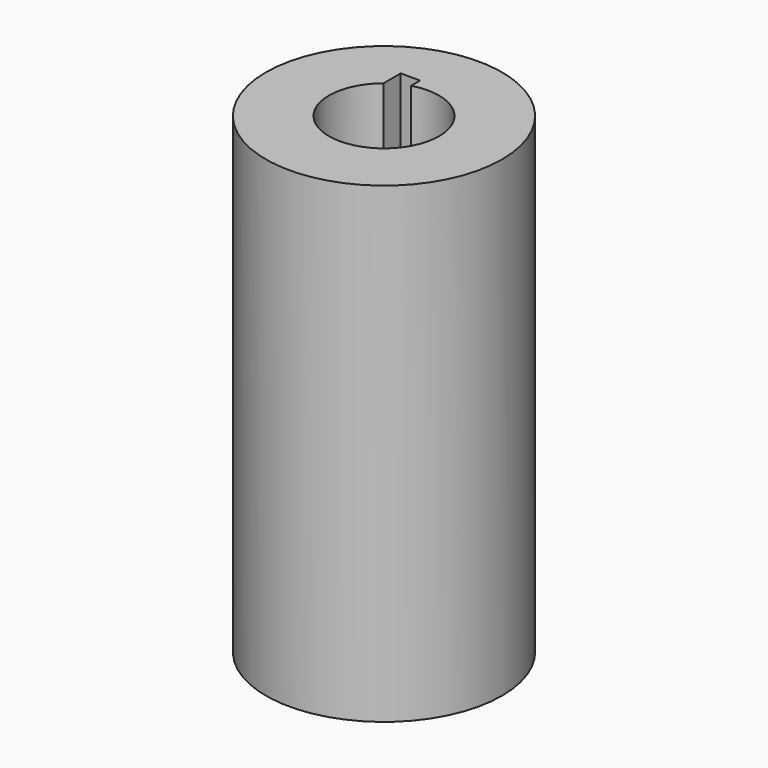
from build123d import *

# Parameters (mm, degrees)
F0_R      = 7.5
F1_DEPTH  = 30
F2_R      = 3.5
F3_DEPTH  = 15
F5_DEPTH  = 12
F7_DEPTH  = 12
F8_DEPTH  = 3
F10_DEPTH = 15


with BuildPart() as f1:
    # F0 (on Top) → F1 (new body)
    with BuildSketch(Plane.XY):
        Circle(F0_R)
    extrude(amount=F1_DEPTH)

    # F2 (on face) → F3 (cut)
    with BuildSketch(Plane.XY.offset(30)):
        Circle(F2_R)
    extrude(amount=-F3_DEPTH, mode=Mode.SUBTRACT)

    # F4 (on face) → F5 (cut)
    with BuildSketch(Plane(origin=(0, 0, 0), x_dir=(1, 0, 0), z_dir=(0, 0, -1))):
        with BuildLine():
            ThreePointArc((-2.8416053494, -1.5772694882), (0.8146418276, -3.1462451737), (3.25, 0))
            ThreePointArc((3.25, 0), (1.2598831128, 2.9958629044), (-2.2731966412, 2.3227305118))
            Line((-2.2731966412, 2.3227305118), (-2.8416053494, -1.5772694882))
        make_face()
    extrude(amount=-F5_DEPTH, mode=Mode.SUBTRACT)

    # F6 (on face) → F7 (cut)
    with BuildSketch(Plane.XY.offset(30)):
        with BuildLine():
            Line((-2.2055036746, 4.0815616958), (-2.2055036746, 2.7176742891))
            ThreePointArc((-2.2055036746, 2.7176742891), (-1.6205201656, 3.1022434451), (-0.9707027348, 3.3626977564))
            Line((-0.9707027348, 3.3626977564), (-0.9707027348, 4.0815616958))
            Line((-0.9707027348, 4.0815616958), (-2.2055036746, 4.0815616958))
        make_face()
    extrude(amount=-F7_DEPTH, mode=Mode.SUBTRACT)

    # F8 (cut): a face of the model
    f8_faces = [f1.faces().sort_by_distance(p)[0] for p in [
        (-1.6545482577, 3.5698041103, 18),
    ]]
    extrude(f8_faces, amount=-F8_DEPTH, mode=Mode.SUBTRACT)

    # F9 (on face) → F10 (cut, through all)
    with BuildSketch(Plane(origin=(0, 0, 0), x_dir=(1, 0, 0), z_dir=(0, 0, -1))):
        with BuildLine():
            Line((-2.9405598837, -1.5628472782), (-2.9290393601, -1.6258008571))
            ThreePointArc((-2.9290393601, -1.6258008571), (3.3149768991, -0.4831440351), (-2.3431411533, 2.3941991429))
            Line((-2.3431411533, 2.3941991429), (-2.3721511755, 2.3371527218))
            Line((-2.3721511755, 2.3371527218), (-2.9405598837, -1.5628472782))
        make_face()
        with BuildLine():
            Line((-2.8416053494, -1.5772694882), (-2.2731966412, 2.3227305118))
            ThreePointArc((-2.2731966412, 2.3227305118), (3.2160223648, -0.4687218251), (-2.8416053494, -1.5772694882))
        make_face(mode=Mode.SUBTRACT)
    extrude(amount=-F10_DEPTH, mode=Mode.SUBTRACT)


solid = f1.part
